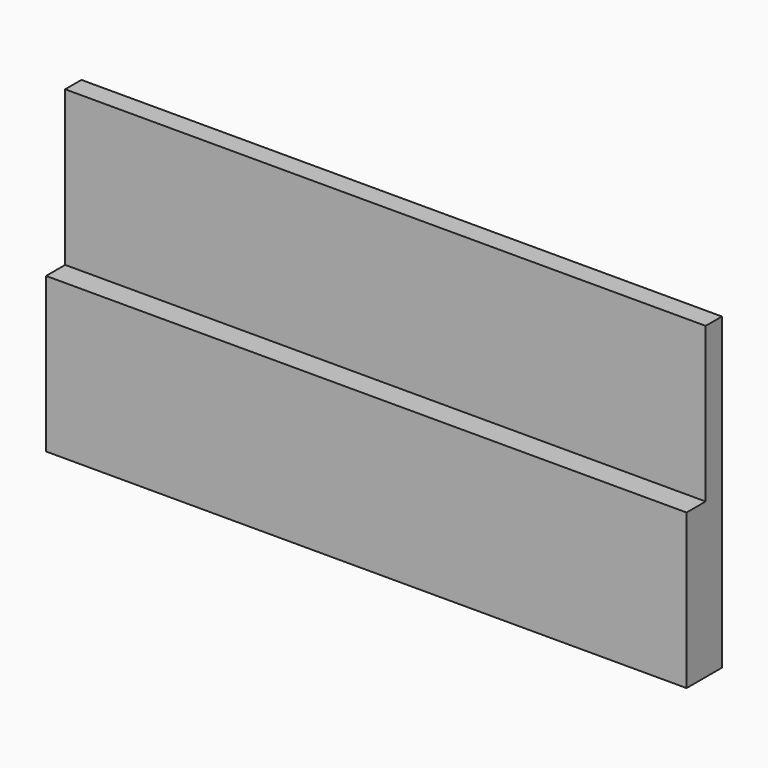
from build123d import *

# Parameters (mm, degrees)
F0_W     = 368.3
F0_H     = 177.8
F1_DEPTH = 25.4
F2_W     = 97.073552
F2_H     = 88.9
F3_DEPTH = 368.3


with BuildPart() as f1:
    # F0 (on Front) → F1 (new body)
    with BuildSketch(Plane.XZ):
        with Locations((184.15, -88.9)):
            Rectangle(F0_W, F0_H)
    extrude(amount=F1_DEPTH)

    # F2 (on Right) → F3 (cut)
    with BuildSketch(Plane.YZ):
        with Locations((-60.2259, -44.45)):
            Rectangle(F2_W, F2_H)
    extrude(amount=F3_DEPTH, mode=Mode.SUBTRACT)


solid = f1.part
